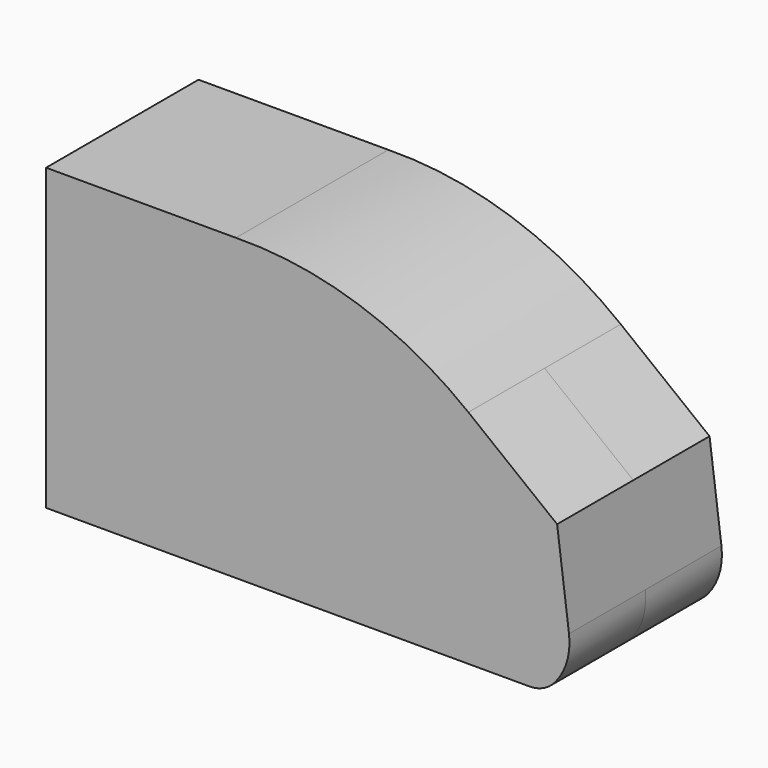
from build123d import *

# Parameters (mm, degrees)
F1_DEPTH = 50.8
F3_DEPTH = 50.8


with BuildPart() as f1:
    # F0 (on Front) → F1 (new body)
    with BuildSketch(Plane.XZ):
        with BuildLine():
            Line((0, 159.701615572), (0, 0))
            Line((0, 0), (149.214476347, 0))
            Line((149.214476347, 0), (257.6787471771, 0))
            ThreePointArc((257.6787471771, 0), (265.1678404248, 1.6413058434), (271.2840437889, 6.2643415295))
            ThreePointArc((271.2840437889, 6.2643415295), (277.7466562856, 18.1237976534), (278.8425385952, 31.585264951))
            Line((278.8425385952, 31.585264951), (272.5066001582, 80.9592581134))
            Line((272.5066001582, 80.9592581134), (225.1772731543, 118.1299388409))
            ThreePointArc((225.1772731543, 118.1299388409), (166.7889696259, 149.6243344451), (101.2180969119, 159.701615572))
            Line((101.2180969119, 159.701615572), (0, 159.701615572))
        make_face()
    extrude(amount=F1_DEPTH)

    # F1_face1 (on face) + F2 (on face) → F3 (join)
    with BuildSketch(Plane(origin=(126.3622258325, 0, 73.3605243623), x_dir=(1, 0, 0), z_dir=(0, 1, 0))):
        with BuildLine():
            Line((-126.3622258325, -86.3410912097), (-25.1441289206, -86.3410912097))
            ThreePointArc((-25.1441289206, -86.3410912097), (40.4267437934, -76.2638100828), (98.8150473217, -44.7694144786))
            Line((98.8150473217, -44.7694144786), (146.1443743257, -7.5987337511))
            Line((146.1443743257, -7.5987337511), (152.4803127627, 41.7752594113))
            ThreePointArc((152.4803127627, 41.7752594113), (151.3844304531, 55.2367267089), (144.9218179564, 67.0961828329))
            ThreePointArc((144.9218179564, 67.0961828329), (138.8056145923, 71.7192185189), (131.3165213446, 73.3605243623))
            Line((131.3165213446, 73.3605243623), (-126.3622258325, 73.3605243623))
            Line((-126.3622258325, 73.3605243623), (-126.3622258325, -86.3410912097))
        make_face()
    with BuildSketch(Plane.XZ.offset(50.8)):
        with BuildLine():
            ThreePointArc((225.1772731543, 118.1299388409), (166.7889696259, 149.6243344451), (101.2180969119, 159.701615572))
            Line((101.2180969119, 159.701615572), (0, 159.701615572))
            Line((0, 159.701615572), (0, 0))
            Line((0, 0), (257.6787471771, 0))
            ThreePointArc((257.6787471771, 0), (265.1678404248, 1.6413058434), (271.2840437889, 6.2643415295))
            ThreePointArc((271.2840437889, 6.2643415295), (277.7466562856, 18.1237976534), (278.8425385952, 31.585264951))
            Line((278.8425385952, 31.585264951), (272.5066001582, 80.9592581134))
            Line((272.5066001582, 80.9592581134), (225.1772731543, 118.1299388409))
        make_face()
    extrude(amount=F3_DEPTH, dir=(0, 1, 0))


solid = f1.part
